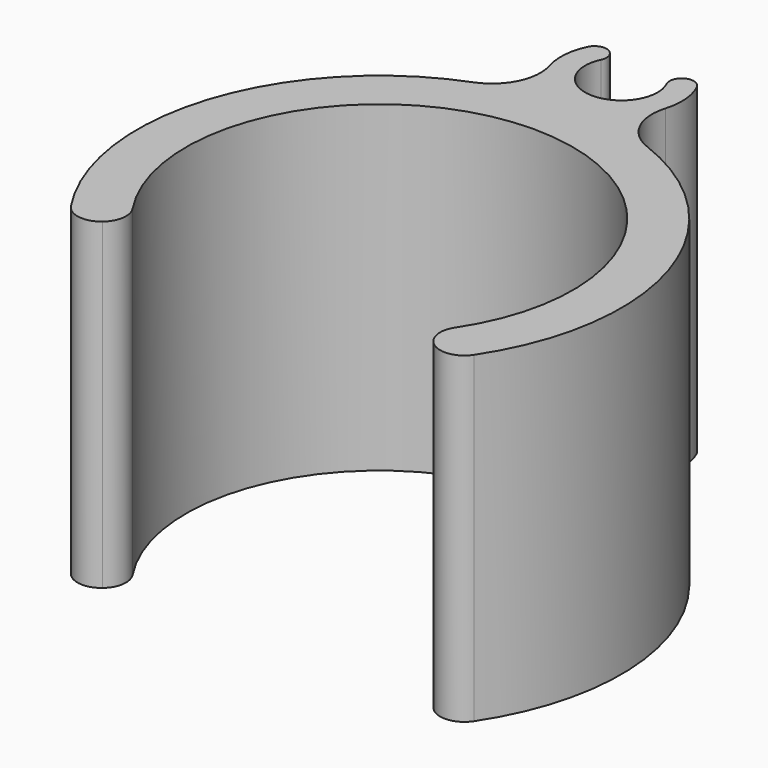
from build123d import *

# Parameters (mm, degrees)
F1_DEPTH = 20


with BuildPart() as f1:
    # F0 (on Top) → F1 (new body)
    with BuildSketch(Plane.XY):
        with BuildLine():
            ThreePointArc((-9.992663, -6.644297), (0, 12), (9.992663, -6.644297))
            ThreePointArc((9.992663, -6.644297), (9.757043, -7.68851), (10.277565, -8.623901))
            ThreePointArc((10.277565, -8.623901), (11.455422, -8.959537), (12.490829, -8.305371))
            ThreePointArc((12.490829, -8.305371), (14.292312, 4.553001), (5.385165, 14))
            ThreePointArc((5.385165, 14), (3.767759, 15.480909), (3.59011, 17.666667))
            ThreePointArc((3.59011, 17.666667), (3.73912, 19.035446), (3.384061, 20.365745))
            ThreePointArc((3.384061, 20.365745), (2.866238, 20.77555), (2.225158, 20.617129))
            ThreePointArc((2.225158, 20.617129), (1.974294, 20.201585), (2.030437, 19.719447))
            ThreePointArc((2.030437, 19.719447), (0, 16.5), (-2.030437, 19.719447))
            ThreePointArc((-2.030437, 19.719447), (-1.974294, 20.201585), (-2.225158, 20.617129))
            ThreePointArc((-2.225158, 20.617129), (-2.866238, 20.77555), (-3.384061, 20.365745))
            ThreePointArc((-3.384061, 20.365745), (-3.73912, 19.035446), (-3.59011, 17.666667))
            ThreePointArc((-3.59011, 17.666667), (-3.767759, 15.480909), (-5.385165, 14))
            ThreePointArc((-5.385165, 14), (-14.292312, 4.553001), (-12.490829, -8.305371))
            ThreePointArc((-12.490829, -8.305371), (-11.455422, -8.959537), (-10.277565, -8.623901))
            ThreePointArc((-10.277565, -8.623901), (-9.757043, -7.68851), (-9.992663, -6.644297))
        make_face()
    extrude(amount=F1_DEPTH)


solid = f1.part
